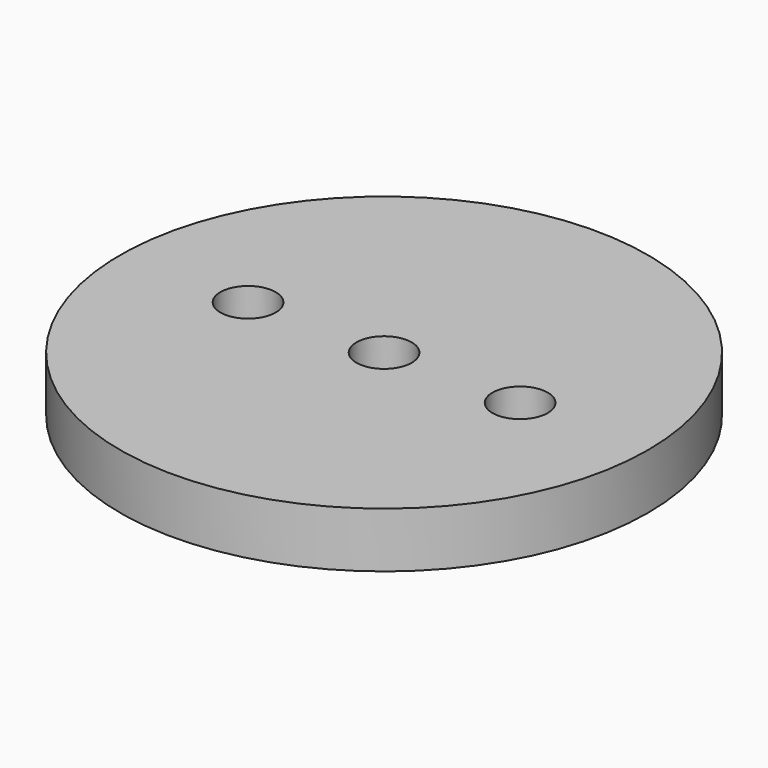
from build123d import *

# Parameters (mm, degrees)
F0_R     = 14.319016
F0_R_2   = 1.5
F1_DEPTH = 3


with BuildPart() as f1:
    # F0 (on Top) → F1 (new body)
    with BuildSketch(Plane.XY):
        with Locations((1.202381, -1.202381)):
            Circle(F0_R)
        with Locations((-6.177619, -1.202381)):
            Circle(F0_R_2, mode=Mode.SUBTRACT)
        with Locations((1.202381, -1.202381)):
            Circle(F0_R_2, mode=Mode.SUBTRACT)
        with Locations((8.582381, -1.202381)):
            Circle(F0_R_2, mode=Mode.SUBTRACT)
    extrude(amount=F1_DEPTH)


solid = f1.part
